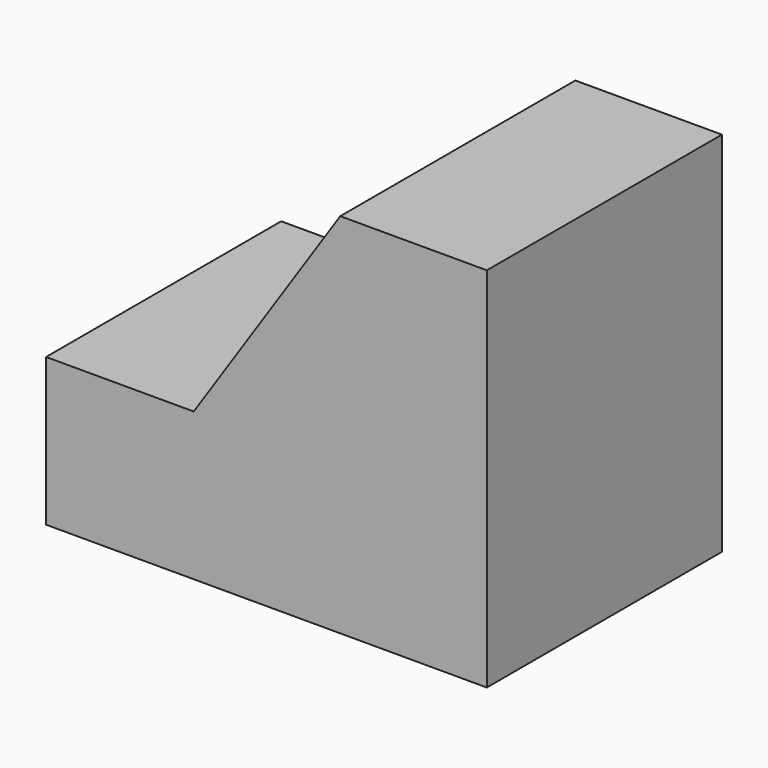
from build123d import *

# Parameters (mm, degrees)
F0_W     = 38.1
F0_H     = 31.75
F1_DEPTH = 25.4
F3_DEPTH = 25.4
F5_DEPTH = 25.401


with BuildPart() as f1:
    # F0 (on Front) → F1 (new body)
    with BuildSketch(Plane.XZ):
        with Locations((19.05, 15.875)):
            Rectangle(F0_W, F0_H)
    extrude(amount=F1_DEPTH)

    # F2 (on Front) → F3 (cut)
    with BuildSketch(Plane.XZ):
        Polygon((23.017952, 8.342751), (23.017952, 31.260189), (0, 12.564384), (0, 8.342751), align=None)
    extrude(amount=-F3_DEPTH, mode=Mode.SUBTRACT)

    # F4 (on face) → F5 (cut, through all)
    with BuildSketch(Plane.XZ.offset(25.4)):
        Polygon((0, 31.75), (0, 12.765414), (12.765414, 12.765414), (25.430316, 31.75), align=None)
    extrude(amount=-F5_DEPTH, mode=Mode.SUBTRACT)


solid = f1.part
